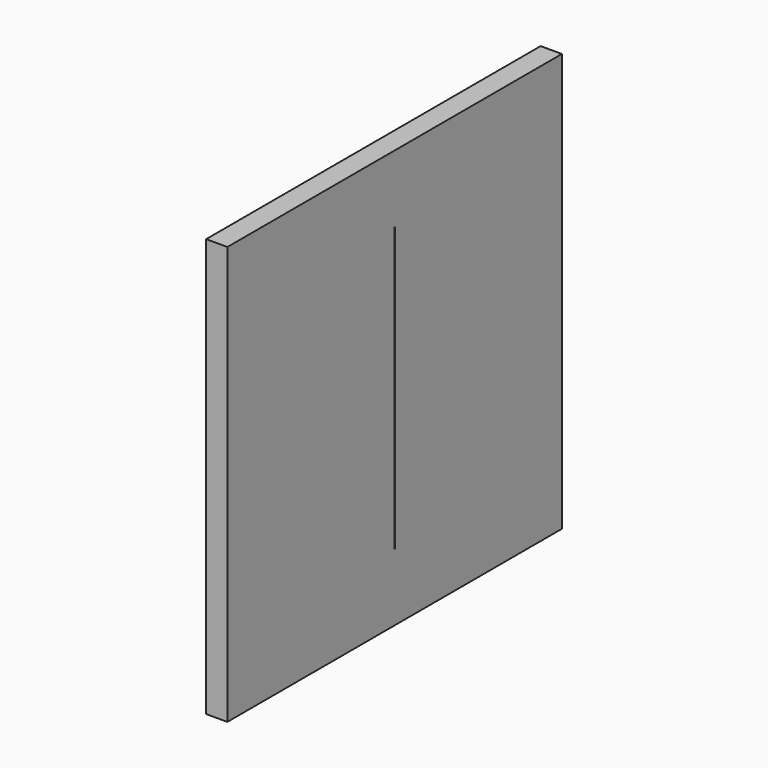
from build123d import *

# Parameters (mm, degrees)
BOX007_W     = 10
BOX007_H     = 0.1
BOX007_DEPTH = 40
BOX006_W     = 3
BOX006_H     = 59
BOX006_DEPTH = 59


with BuildPart() as slit_hole:
    # Box007 → Box007 (new body)
    with BuildSketch(Plane(origin=(-3, 29.45, 9.5), x_dir=(1, 0, 0), z_dir=(0, 0, 1))):
        with Locations((5, 0.05)):
            Rectangle(BOX007_W, BOX007_H)
    extrude(amount=BOX007_DEPTH)


with BuildPart() as slit_plate_cut:
    # Box006 → Box006 (new body)
    with BuildSketch(Plane.XY):
        with Locations((1.5, 29.5)):
            Rectangle(BOX006_W, BOX006_H)
    extrude(amount=BOX006_DEPTH)

    # Cut004: cut slit hole
    add(slit_hole.part, mode=Mode.SUBTRACT)


solid = slit_plate_cut.part
